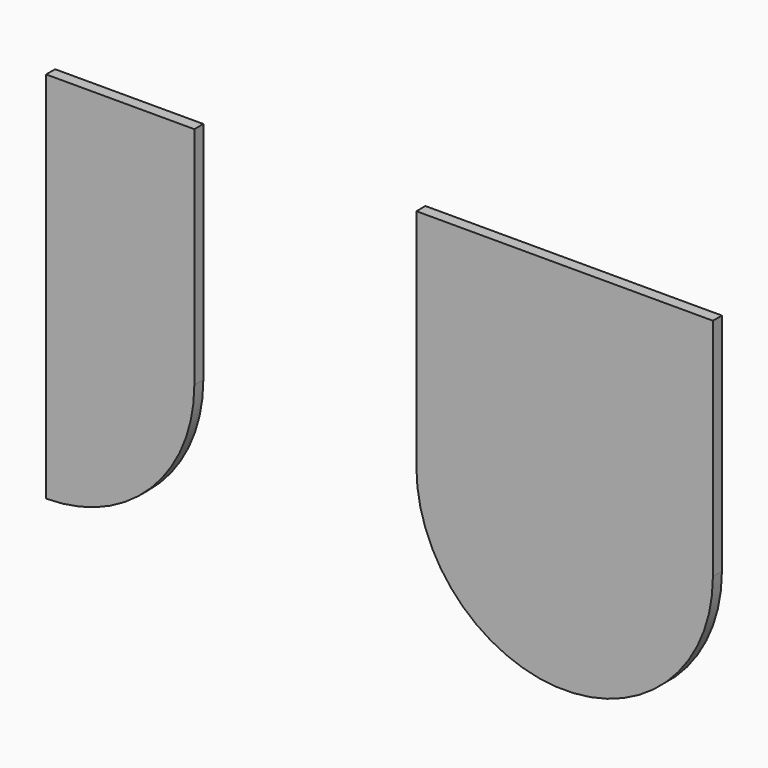
from build123d import *

# Parameters (mm, degrees)
F1_DEPTH = 3
F2_DEPTH = 3


with BuildPart() as f1:
    # F0 (on Front) → F1 (new body)
    with BuildSketch(Plane.XZ):
        with BuildLine():
            Line((-39.5, 60), (-39.5, 0))
            ThreePointArc((-39.5, 0), (0, -39.5), (39.5, 0))
            Line((39.5, 0), (39.5, 60))
            Line((39.5, 60), (-39.5, 60))
        make_face()
    extrude(amount=F1_DEPTH)

    # F0 (on Front) → F2 (join)
    with BuildSketch(Plane.XZ):
        with BuildLine():
            Line((-39.5, 60), (-39.5, 0))
            ThreePointArc((-39.5, 0), (0, -39.5), (39.5, 0))
            Line((39.5, 0), (39.5, 60))
            Line((39.5, 60), (-39.5, 60))
        make_face()
        with BuildLine():
            Line((-138.167471, 0), (-138.167471, -39.5))
            ThreePointArc((-138.167471, -39.5), (-110.236753, -27.930718), (-98.667471, 0))
            Line((-98.667471, 0), (-98.667471, 60))
            Line((-98.667471, 60), (-138.167471, 60))
            Line((-138.167471, 60), (-138.167471, 0))
        make_face()
    extrude(amount=F2_DEPTH)


solid = f1.part
